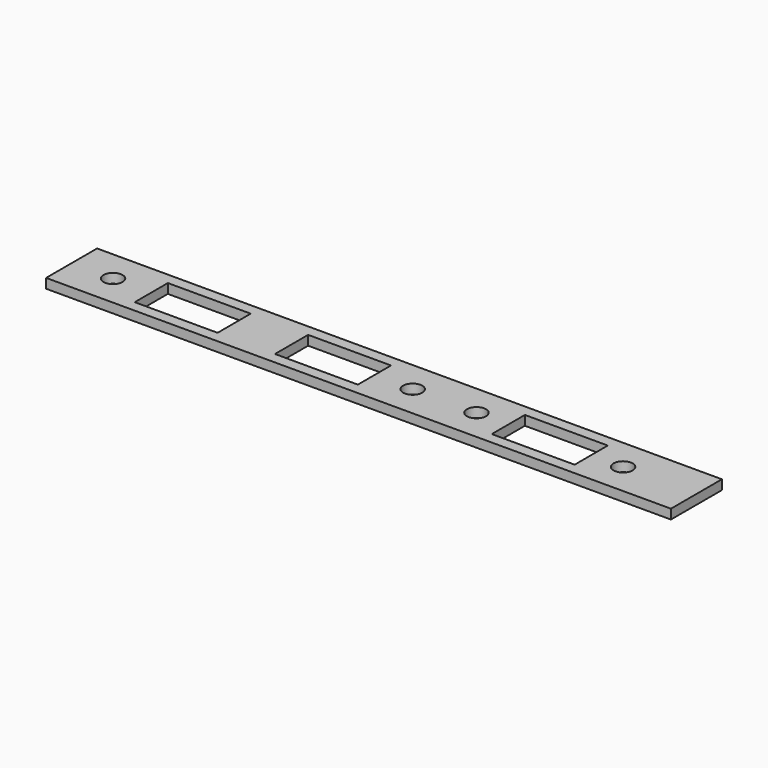
from build123d import *

# Parameters (mm, degrees)
F0_W     = 124.46
F0_H     = 12.7
F0_R     = 1.905
F0_W_2   = 16.51
F0_H_2   = 8.255
F1_DEPTH = 1.905


with BuildPart() as f1:
    # F0 (on Top) → F1 (new body)
    with BuildSketch(Plane.XY):
        with Locations((62.23, 6.35)):
            Rectangle(F0_W, F0_H)
        with Locations((8.255, 6.35)):
            Circle(F0_R, mode=Mode.SUBTRACT)
        with Locations((24.13, 6.35)):
            Rectangle(F0_W_2, F0_H_2, mode=Mode.SUBTRACT)
        with Locations((52.07, 6.35)):
            Rectangle(F0_W_2, F0_H_2, mode=Mode.SUBTRACT)
        with Locations((67.945, 6.35)):
            Circle(F0_R, mode=Mode.SUBTRACT)
        with Locations((80.645, 6.35)):
            Circle(F0_R, mode=Mode.SUBTRACT)
        with Locations((95.25, 6.35)):
            Rectangle(F0_W_2, F0_H_2, mode=Mode.SUBTRACT)
        with Locations((109.855, 6.35)):
            Circle(F0_R, mode=Mode.SUBTRACT)
    extrude(amount=F1_DEPTH)


solid = f1.part
